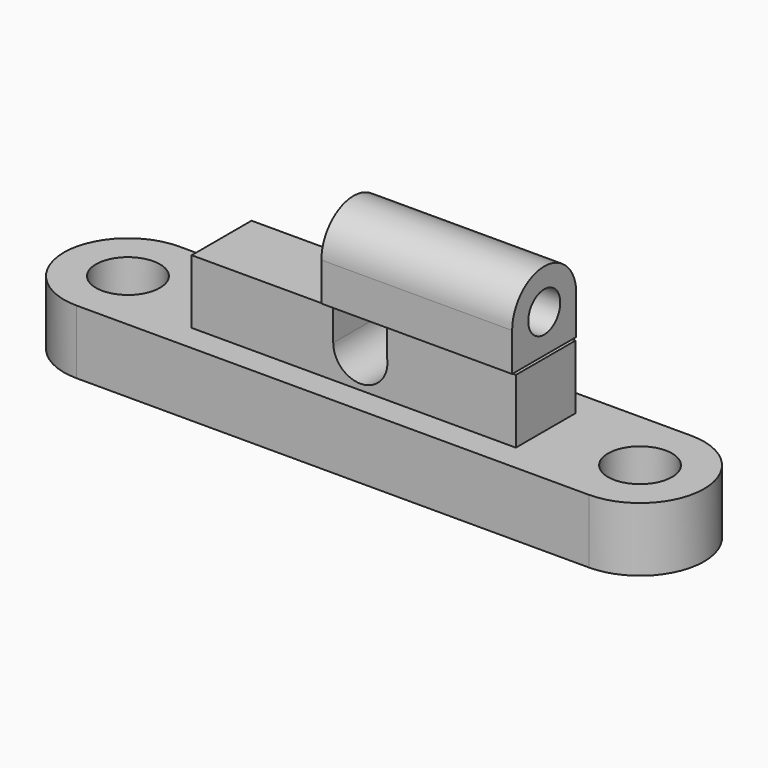
from build123d import *

# Parameters (mm, degrees)
F0_R     = 6.35
F1_DEPTH = 12.7
F2_W     = 64.31244
F2_H     = 14.841332
F3_DEPTH = 25.4
F5_DEPTH = 25.4
F6_R     = 3.965048
F7_DEPTH = 37.846


with BuildPart() as f1:
    # F0 (on Top) → F1 (new body)
    with BuildSketch(Plane.XY):
        with BuildLine():
            Line((56.853972, 12.7), (-44.746028, 12.7))
            ThreePointArc((-44.746028, 12.7), (-57.446028, 0), (-44.746028, -12.7))
            Line((-44.746028, -12.7), (56.853972, -12.7))
            ThreePointArc((56.853972, -12.7), (69.553972, 0), (56.853972, 12.7))
        make_face()
        with Locations((-44.746028, 0)):
            Circle(F0_R, mode=Mode.SUBTRACT)
        with Locations((56.853972, 0)):
            Circle(F0_R, mode=Mode.SUBTRACT)
    extrude(amount=F1_DEPTH)

    # F2 (on Top) → F3 (join)
    with BuildSketch(Plane.XY):
        with Locations((5.993614, 0)):
            Rectangle(F2_W, F2_H)
    extrude(amount=F3_DEPTH)

    # F4 (on face) → F5 (cut)
    with BuildSketch(Plane.XZ.offset(7.420666)):
        with BuildLine():
            Line((1.919614, 25.4), (1.919614, 19.223823))
            ThreePointArc((1.919614, 19.223823), (7.77006, 13.86812), (12.589346, 20.167783))
            Line((12.589346, 20.167783), (12.589346, 25.4))
            Line((12.589346, 25.4), (1.919614, 25.4))
        make_face()
    extrude(amount=-F5_DEPTH, mode=Mode.SUBTRACT)


with BuildPart() as f7:
    # F6 (on Right) → F7 (new body)
    with BuildSketch(Plane.YZ):
        with BuildLine():
            Line((-7.960281, 25.686922), (-2.332317, 25.686922))
            Line((-2.332317, 25.686922), (2.332317, 25.686922))
            Line((2.332317, 25.686922), (7.896351, 25.686922))
            Line((7.896351, 25.686922), (7.896351, 32.291023))
            Line((7.896351, 32.291023), (7.896351, 34.304696))
            ThreePointArc((7.896351, 34.304696), (-0.504432, 41.242142), (-7.960281, 33.297859))
            Line((-7.960281, 33.297859), (-7.960281, 25.686922))
        make_face()
        with Locations((0, 33.297859)):
            Circle(F6_R, mode=Mode.SUBTRACT)
    extrude(amount=F7_DEPTH)


solid = Compound([f1.part, f7.part])
